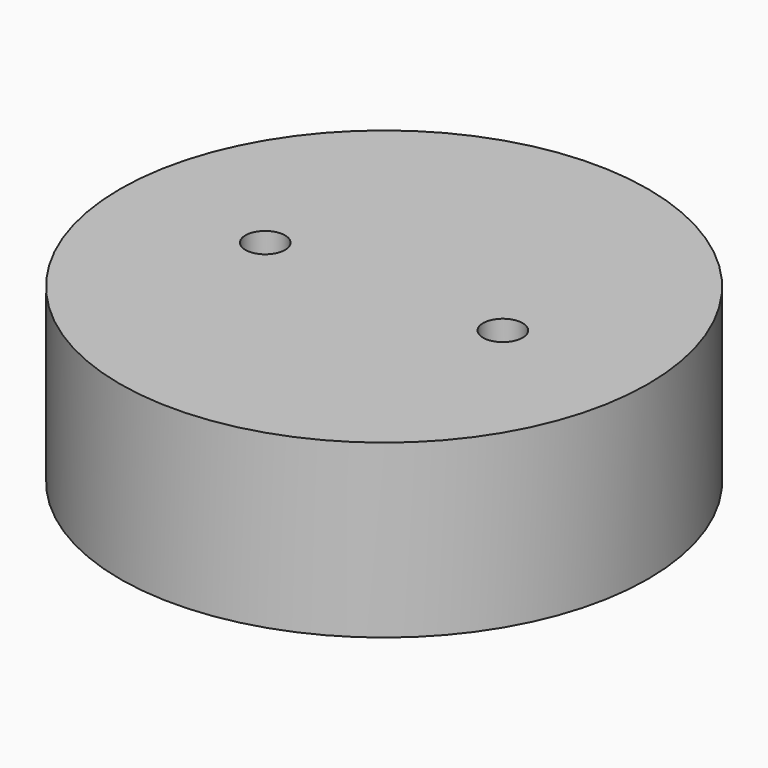
from build123d import *

# Parameters (mm, degrees)
F0_R          = 20
F1_DEPTH      = 13
F3_DEPTH      = 25
F3_DEPTH_BACK = 5
F4_R          = 1.5
F5_DEPTH      = 13.001


with BuildPart() as f1:
    # F0 (on Top) → F1 (new body)
    with BuildSketch(Plane.XY):
        Circle(F0_R)
    extrude(amount=F1_DEPTH)

    # F2 (on Right) → F3 (cut, two sides)
    with BuildSketch(Plane.YZ) as f3_sk:
        Polygon((-9, 2), (-9, 0), (9, 0), (9, 2), (10.1, 2), (10.1, 4.1), (-10.1, 4.1), (-10.1, 2), align=None)
    extrude(amount=-F3_DEPTH, mode=Mode.SUBTRACT)
    extrude(f3_sk.sketch, amount=F3_DEPTH_BACK, mode=Mode.SUBTRACT)

    # F4 (on face) → F5 (cut, through all)
    with BuildSketch(Plane.XY.offset(13)):
        with Locations((-9, 0)):
            Circle(F4_R)
        with Locations((9, 0)):
            Circle(F4_R)
    extrude(amount=-F5_DEPTH, mode=Mode.SUBTRACT)


solid = f1.part
